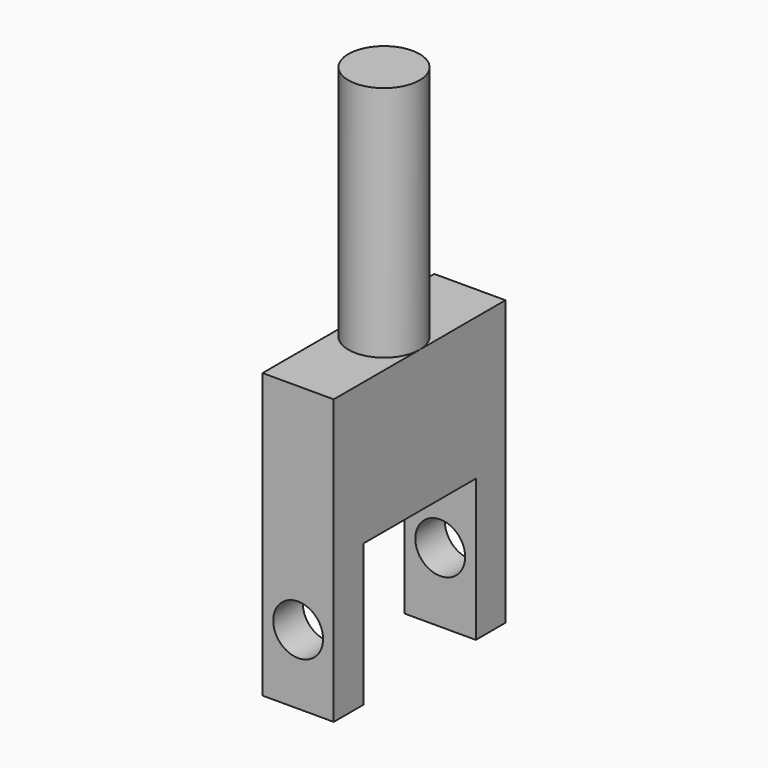
from build123d import *

# Parameters (mm, degrees)
F0_W     = 90.468154
F0_H     = 119.692906
F1_DEPTH = 30
F2_W     = 59.248916
F2_H     = 119.692907
F3_DEPTH = 30
F4_R     = 15
F5_DEPTH = 100
F6_R     = 10.508177
F7_DEPTH = 100


with BuildPart() as f1:
    # F0 (on Right) → F1 (new body)
    with BuildSketch(Plane.YZ):
        Rectangle(F0_W, F0_H)
    extrude(amount=F1_DEPTH)

    # F2 (on face) → F3 (cut)
    with BuildSketch(Plane.YZ.offset(30)):
        with Locations((0, -59.846453)):
            Rectangle(F2_W, F2_H)
    extrude(amount=-F3_DEPTH, mode=Mode.SUBTRACT)

    # F4 (on face) → F5 (join)
    with BuildSketch(Plane.XY.offset(59.846453)):
        with Locations((15, 0)):
            Circle(F4_R)
    extrude(amount=F5_DEPTH)

    # F6 (on face) → F7 (cut)
    with BuildSketch(Plane.XZ.offset(45.234077)):
        with Locations((15, -30.535292)):
            Circle(F6_R)
    extrude(amount=-F7_DEPTH, mode=Mode.SUBTRACT)


solid = f1.part
